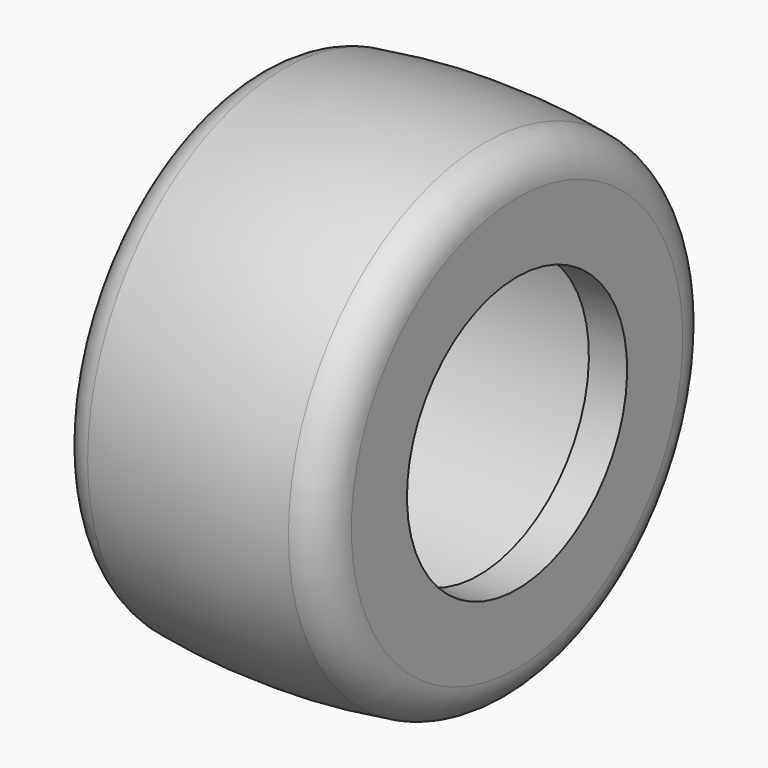
from build123d import *


with BuildPart() as f1:
    # F0 (on Front) → F1 (revolve)
    with BuildSketch(Plane.XZ):
        with BuildLine():
            Line((-17.4, 27.090665), (-17.4, 18))
            Line((-17.4, 18), (-12.4, 18))
            Line((-12.4, 18), (-12.4, 25))
            Line((-12.4, 25), (12.4, 25))
            Line((12.4, 25), (12.4, 18))
            Line((12.4, 18), (17.4, 18))
            Line((17.4, 18), (17.4, 27.090665))
            ThreePointArc((17.4, 27.090665), (16.184644, 30.358152), (13.129412, 32.037175))
            ThreePointArc((13.129412, 32.037175), (0, 33), (-13.129412, 32.037175))
            ThreePointArc((-13.129412, 32.037175), (-16.184644, 30.358152), (-17.4, 27.090665))
        make_face()
    revolve(axis=Axis((-30.739078, 0, 0), (1, 0, 0)))


solid = f1.part
